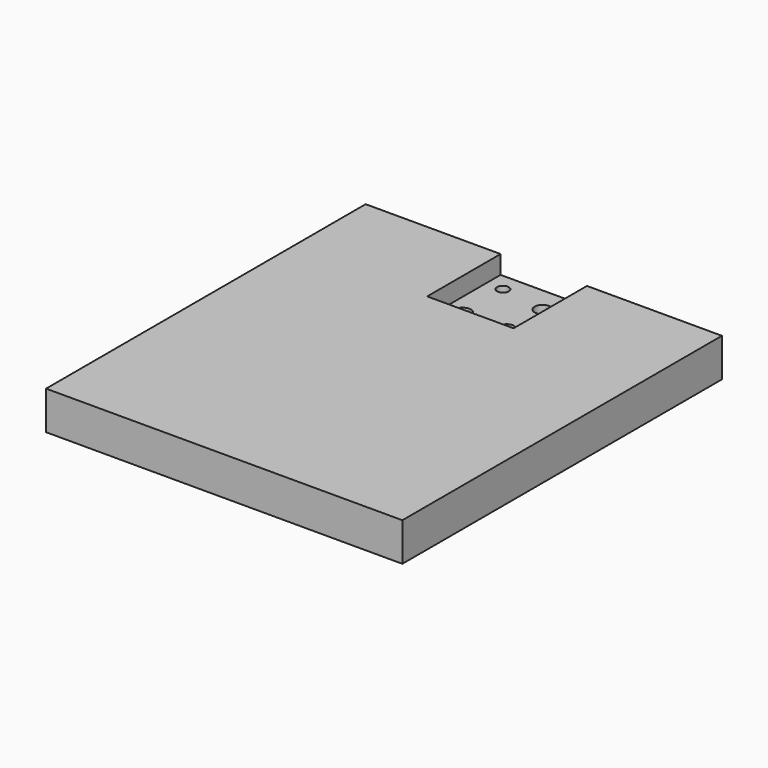
from build123d import *

# Parameters (mm, degrees)
F0_W     = 330
F0_H     = 370
F1_DEPTH = 35.56
F2_W     = 80
F2_H     = 85
F3_DEPTH = 17
F4_R     = 5.431647
F4_R_2   = 7.363502
F4_R_3   = 7.681498
F4_R_4   = 6.500814
F5_DEPTH = 18.561


with BuildPart() as f1:
    # F0 (on Top) → F1 (new body)
    with BuildSketch(Plane.XY):
        with Locations((0, -185)):
            Rectangle(F0_W, F0_H)
    extrude(amount=F1_DEPTH)

    # F2 (on face) → F3 (cut)
    with BuildSketch(Plane.XY.offset(35.56)):
        with Locations((0, -42.5)):
            Rectangle(F2_W, F2_H)
    extrude(amount=-F3_DEPTH, mode=Mode.SUBTRACT)

    # F4 (on face) → F5 (cut, through all)
    with BuildSketch(Plane.XY.offset(18.56)):
        with Locations((-24.62519, -16.512778)):
            Circle(F4_R)
        with Locations((17.679622, -23.458349)):
            Circle(F4_R_2)
        with Locations((-24.62519, -63.237496)):
            Circle(F4_R_3)
        with Locations((15.785381, -62.606081)):
            Circle(F4_R_4)
    extrude(amount=-F5_DEPTH, mode=Mode.SUBTRACT)


solid = f1.part
